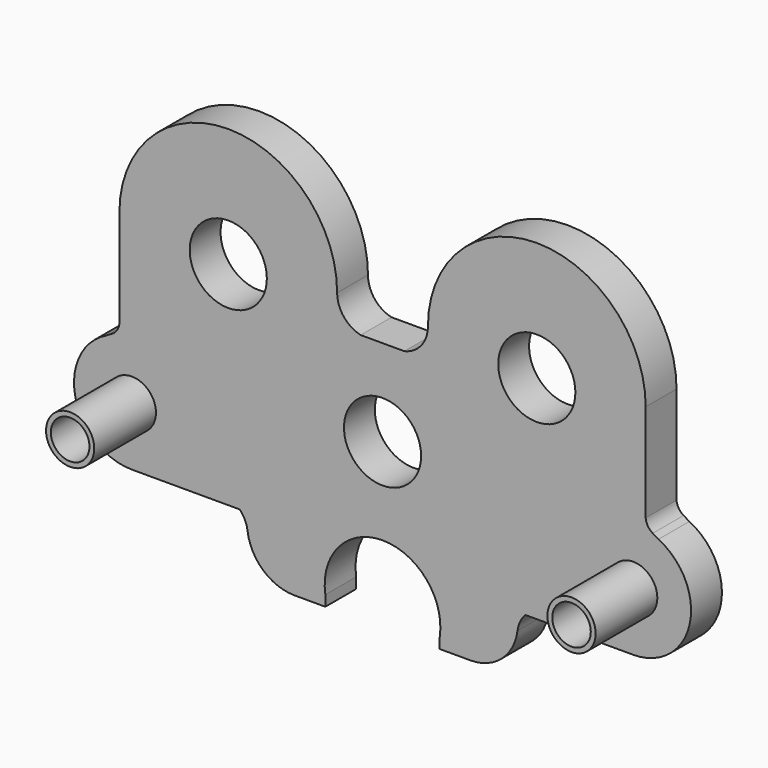
from build123d import *

# Parameters (mm, degrees)
F0_R     = 7.9375
F0_R_2   = 12.7
F0_R_3   = 6.35
F1_DEPTH = 12.7
F2_DEPTH = 38.1


with BuildPart() as f1:
    # F0 (on Front) → F1 (new body)
    with BuildSketch(Plane.XZ):
        with BuildLine():
            ThreePointArc((-18.836695, -46.961795), (-14.440525, -31.694289), (0, -25.069012))
            ThreePointArc((0, -25.069012), (14.440525, -31.694289), (18.836695, -46.961795))
            Line((18.836695, -46.961795), (18.836695, -50.469012))
            Line((18.836695, -50.469012), (28.948744, -50.469012))
            ThreePointArc((28.948744, -50.469012), (39.277333, -46.56879), (44.45, -36.815074))
            ThreePointArc((44.45, -36.815074), (45.305203, -33.909333), (47.029443, -31.419012))
            Line((47.029443, -31.419012), (82.55, -31.419012))
            ThreePointArc((82.55, -31.419012), (101.115371, -16.638614), (90.871967, 4.76713))
            Line((90.871967, 4.76713), (88.979194, 5.89941))
            ThreePointArc((88.979194, 5.89941), (87.374571, 7.466741), (86.651802, 9.590169))
            Line((86.651802, 9.590169), (86.651802, 41.803708))
            ThreePointArc((86.651802, 41.803708), (50.8, 77.65551), (14.948198, 41.803708))
            ThreePointArc((14.948198, 41.803708), (12.768643, 35.582176), (7.182983, 32.080988))
            Line((7.182983, 32.080988), (1.5227, 32.080988))
            Line((1.5227, 32.080988), (-1.5227, 32.080988))
            Line((-1.5227, 32.080988), (-7.182983, 32.080988))
            ThreePointArc((-7.182983, 32.080988), (-12.768643, 35.582176), (-14.948198, 41.803708))
            ThreePointArc((-14.948198, 41.803708), (-50.8, 77.65551), (-86.651802, 41.803708))
            Line((-86.651802, 41.803708), (-86.651802, 9.590169))
            ThreePointArc((-86.651802, 9.590169), (-87.374571, 7.466741), (-88.979194, 5.89941))
            Line((-88.979194, 5.89941), (-90.871967, 4.76713))
            ThreePointArc((-90.871967, 4.76713), (-101.115371, -16.638614), (-82.55, -31.419012))
            Line((-82.55, -31.419012), (-47.029443, -31.419012))
            ThreePointArc((-47.029443, -31.419012), (-45.305203, -33.909333), (-44.45, -36.815074))
            ThreePointArc((-44.45, -36.815074), (-39.277333, -46.56879), (-28.948744, -50.469012))
            Line((-28.948744, -50.469012), (-18.836695, -50.469012))
            Line((-18.836695, -50.469012), (-18.836695, -46.961795))
        make_face()
        with Locations((-82.55, -12.369012)):
            Circle(F0_R, mode=Mode.SUBTRACT)
        with Locations((0, 3.505988)):
            Circle(F0_R_2, mode=Mode.SUBTRACT)
        with Locations((82.55, -12.369012)):
            Circle(F0_R, mode=Mode.SUBTRACT)
        with Locations((-50.8, 38.430988)):
            Circle(F0_R_2, mode=Mode.SUBTRACT)
        with Locations((50.8, 38.430988)):
            Circle(F0_R_2, mode=Mode.SUBTRACT)
        with Locations((-82.55, -12.369012)):
            Circle(F0_R)
        with Locations((-82.55, -12.369012)):
            Circle(F0_R_3, mode=Mode.SUBTRACT)
        with Locations((82.55, -12.369012)):
            Circle(F0_R)
        with Locations((82.55, -12.369012)):
            Circle(F0_R_3, mode=Mode.SUBTRACT)
    extrude(amount=F1_DEPTH)

    # F0 (on Front) → F2 (join)
    with BuildSketch(Plane.XZ):
        with Locations((-82.55, -12.369012)):
            Circle(F0_R)
        with Locations((-82.55, -12.369012)):
            Circle(F0_R_3, mode=Mode.SUBTRACT)
        with Locations((82.55, -12.369012)):
            Circle(F0_R)
        with Locations((82.55, -12.369012)):
            Circle(F0_R_3, mode=Mode.SUBTRACT)
    extrude(amount=F2_DEPTH)


solid = f1.part
